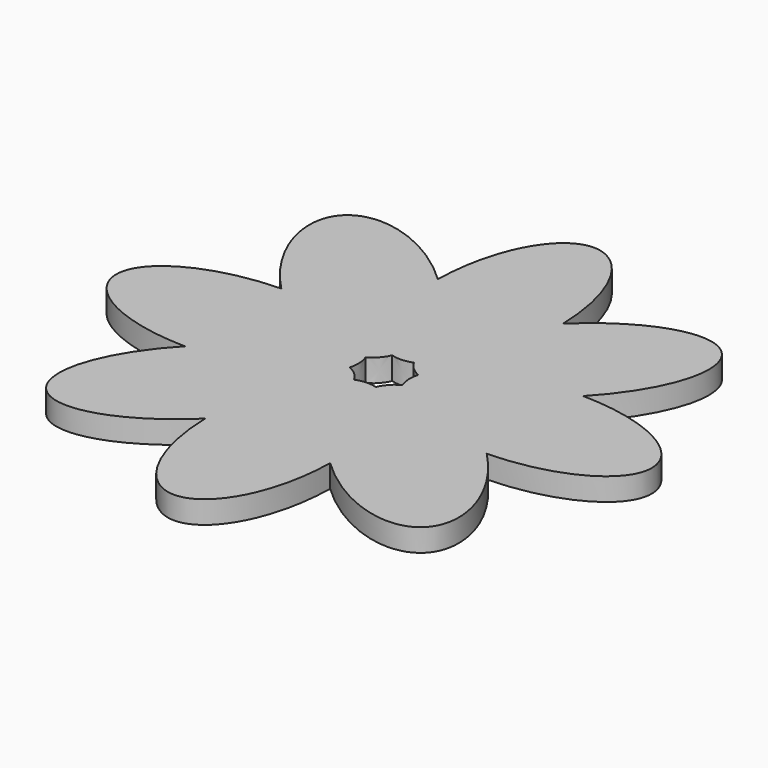
from build123d import *

# Parameters (mm, degrees)
F3_DEPTH = 3


with BuildPart() as f3:
    # F2 (on face) → F3 (new body)
    with BuildSketch(Plane.XY):
        with BuildLine():
            add(Edge.make_bspline(
                [(46.0166394773, 57.8690613342), (45.6725287761, 73.3543999887), (37.7751981504, 73.2131118908), (29.8778675246, 73.0718237928), (29.6776507752, 57.5767467858)],
                knots=[4.755974008, 4.755974008, 4.755974008, 6.2923007601, 6.2923007601, 7.8286275121, 7.8286275121, 7.8286275121], degree=2, weights=[1, 0.7191879967, 1, 0.7191879967, 1]))
            add(Edge.make_bspline(
                [(29.6776507752, 57.5767467858), (18.4845397934, 68.283211747), (13.0001895268, 62.5990499361), (7.5158392602, 56.9148881252), (18.3309386658, 45.8166394773)],
                knots=[4.755974008, 4.755974008, 4.755974008, 6.2923007601, 6.2923007601, 7.8286275121, 7.8286275121, 7.8286275121], degree=2, weights=[1, 0.7191879967, 1, 0.7191879967, 1]))
            add(Edge.make_bspline(
                [(18.3309386658, 45.8166394773), (2.8456000113, 45.4725287761), (2.9868881092, 37.5751981504), (3.1281762072, 29.6778675246), (18.6232532142, 29.4776507752)],
                knots=[4.755974008, 4.755974008, 4.755974008, 6.2923007601, 6.2923007601, 7.8286275121, 7.8286275121, 7.8286275121], degree=2, weights=[1, 0.7191879967, 1, 0.7191879967, 1]))
            add(Edge.make_bspline(
                [(18.6232532142, 29.4776507752), (7.916788253, 18.2845397934), (13.6009500639, 12.8001895268), (19.2851118748, 7.3158392602), (30.3833605227, 18.1309386658)],
                knots=[4.755974008, 4.755974008, 4.755974008, 6.2923007601, 6.2923007601, 7.8286275121, 7.8286275121, 7.8286275121], degree=2, weights=[1, 0.7191879967, 1, 0.7191879967, 1]))
            add(Edge.make_bspline(
                [(30.3833605227, 18.1309386658), (30.7274712239, 2.6456000113), (38.6248018496, 2.7868881092), (46.5221324754, 2.9281762072), (46.7223492248, 18.4232532142)],
                knots=[4.755974008, 4.755974008, 4.755974008, 6.2923007601, 6.2923007601, 7.8286275121, 7.8286275121, 7.8286275121], degree=2, weights=[1, 0.7191879967, 1, 0.7191879967, 1]))
            add(Edge.make_bspline(
                [(46.7223492248, 18.4232532142), (57.9154602066, 7.716788253), (63.3998104732, 13.4009500639), (68.8841607398, 19.0851118748), (58.0690613342, 30.1833605227)],
                knots=[4.755974008, 4.755974008, 4.755974008, 6.2923007601, 6.2923007601, 7.8286275121, 7.8286275121, 7.8286275121], degree=2, weights=[1, 0.7191879967, 1, 0.7191879967, 1]))
            add(Edge.make_bspline(
                [(58.0690613342, 30.1833605227), (73.5543999887, 30.5274712239), (73.4131118908, 38.4248018496), (73.2718237928, 46.3221324754), (57.7767467858, 46.5223492248)],
                knots=[4.755974008, 4.755974008, 4.755974008, 6.2923007601, 6.2923007601, 7.8286275121, 7.8286275121, 7.8286275121], degree=2, weights=[1, 0.7191879967, 1, 0.7191879967, 1]))
            add(Edge.make_bspline(
                [(57.7767467858, 46.5223492248), (68.483211747, 57.7154602066), (62.7990499361, 63.1998104732), (57.1148881252, 68.6841607398), (46.0166394773, 57.8690613342)],
                knots=[4.755974008, 4.755974008, 4.755974008, 6.2923007601, 6.2923007601, 7.8286275121, 7.8286275121, 7.8286275121], degree=2, weights=[1, 0.7191879967, 1, 0.7191879967, 1]))
        make_face()
        with BuildLine():
            add(Edge.make_bspline(
                [(34.7686447028, 39.2363682043), (36.0473640482, 39.9375446788), (36.647909742, 41.3005789406)],
                knots=[2.9940426833, 2.9940426833, 2.9940426833, 3.3369260654, 3.3369260654, 3.3369260654], degree=2, weights=[1, 0.9853398341, 1]))
            add(Edge.make_bspline(
                [(36.647909742, 41.3005789406), (38.0479075023, 40.8921944601), (39.4363682043, 41.4313552972)],
                knots=[2.9940426833, 2.9940426833, 2.9940426833, 3.3369260654, 3.3369260654, 3.3369260654], degree=2, weights=[1, 0.9853398341, 1]))
            add(Edge.make_bspline(
                [(39.4363682043, 41.4313552972), (40.1375446788, 40.1526359518), (41.5005789406, 39.552090258)],
                knots=[2.9940426833, 2.9940426833, 2.9940426833, 3.3369260654, 3.3369260654, 3.3369260654], degree=2, weights=[1, 0.9853398341, 1]))
            add(Edge.make_bspline(
                [(41.5005789406, 39.552090258), (41.0921944601, 38.1520924977), (41.6313552972, 36.7636317957)],
                knots=[2.9940426833, 2.9940426833, 2.9940426833, 3.3369260654, 3.3369260654, 3.3369260654], degree=2, weights=[1, 0.9853398341, 1]))
            add(Edge.make_bspline(
                [(41.6313552972, 36.7636317957), (40.3526359518, 36.0624553212), (39.752090258, 34.6994210594)],
                knots=[2.9940426833, 2.9940426833, 2.9940426833, 3.3369260654, 3.3369260654, 3.3369260654], degree=2, weights=[1, 0.9853398341, 1]))
            add(Edge.make_bspline(
                [(39.752090258, 34.6994210594), (38.3520924977, 35.1078055399), (36.9636317957, 34.5686447028)],
                knots=[2.9940426833, 2.9940426833, 2.9940426833, 3.3369260654, 3.3369260654, 3.3369260654], degree=2, weights=[1, 0.9853398341, 1]))
            add(Edge.make_bspline(
                [(36.9636317957, 34.5686447028), (36.2624553212, 35.8473640482), (34.8994210594, 36.447909742)],
                knots=[2.9940426833, 2.9940426833, 2.9940426833, 3.3369260654, 3.3369260654, 3.3369260654], degree=2, weights=[1, 0.9853398341, 1]))
            add(Edge.make_bspline(
                [(34.8994210594, 36.447909742), (35.3078055399, 37.8479075023), (34.7686447028, 39.2363682043)],
                knots=[2.9940426833, 2.9940426833, 2.9940426833, 3.3369260654, 3.3369260654, 3.3369260654], degree=2, weights=[1, 0.9853398341, 1]))
        make_face(mode=Mode.SUBTRACT)
    extrude(amount=F3_DEPTH)


solid = f3.part
